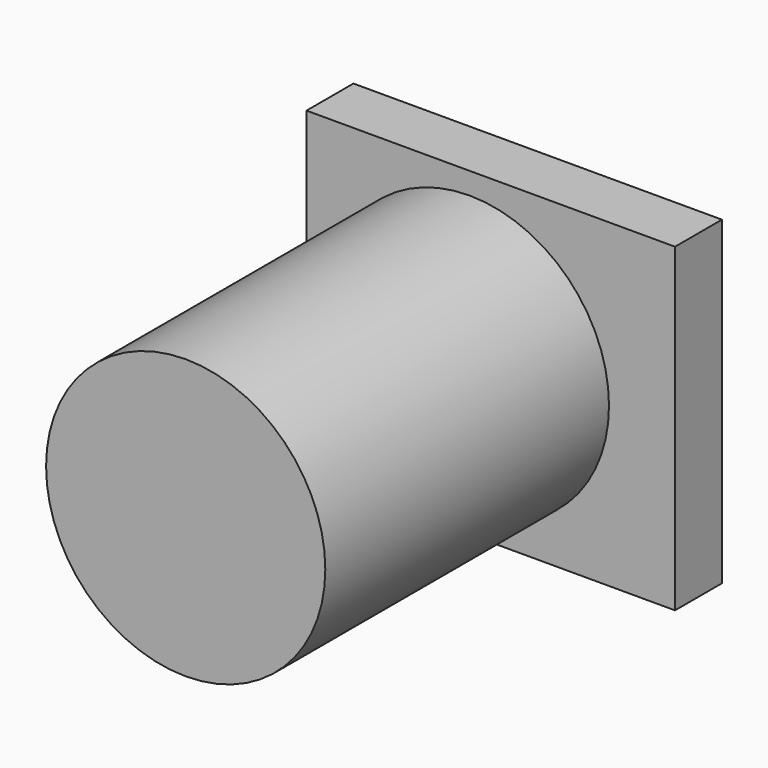
from build123d import *

# Parameters (mm, degrees)
F0_R     = 10
F1_DEPTH = 25.4
F2_W     = 26.393833
F2_H     = 22.931724
F3_DEPTH = 4.2


with BuildPart() as f1:
    # F0 (on Front) → F1 (new body)
    with BuildSketch(Plane.XZ):
        Circle(F0_R)
    extrude(amount=F1_DEPTH)

    # F2 (on Front) → F3 (join)
    with BuildSketch(Plane.XZ):
        with Locations((1.531839, 0.090714)):
            Rectangle(F2_W, F2_H)
    extrude(amount=-F3_DEPTH)


solid = f1.part
